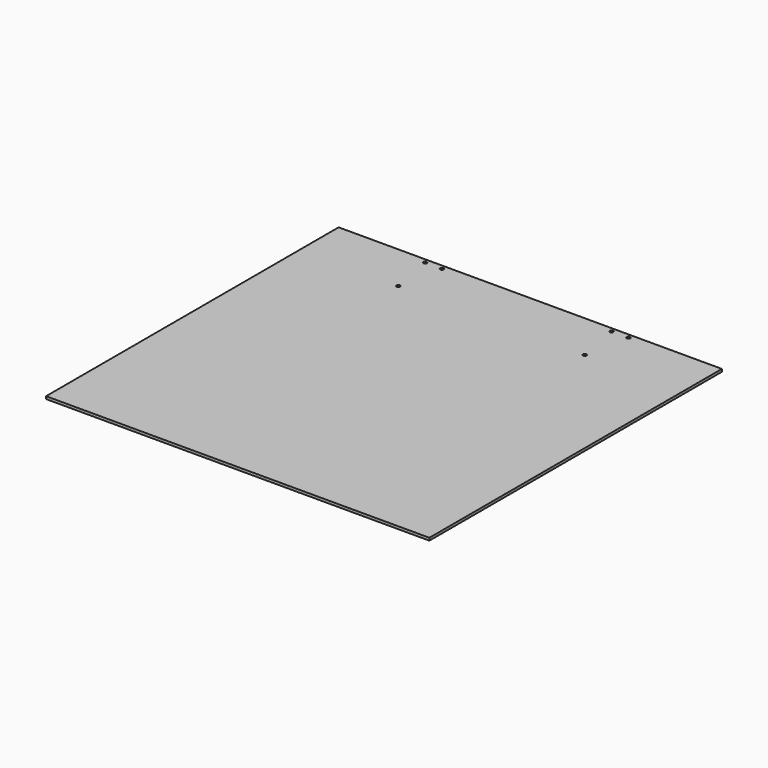
from build123d import *

# Parameters (mm, degrees)
F0_W     = 469.9
F0_H     = 469.9
F1_DEPTH = 3.175
F3_D     = 4.318
F4_DEPTH = 15.24
F5_DEPTH = 6.35


with BuildPart() as f1:
    # F0 (on Top) → F1 (new body)
    with BuildSketch(Plane.XY):
        Rectangle(F0_W, F0_H)
    extrude(amount=F1_DEPTH)

    # F3 (through all)
    with Locations(Plane(origin=(0, 0, 0), x_dir=(1, 0, 0), z_dir=(0, 0, -1))):
        with Locations((124.6378, -214.3252), (103.9622, -214.3252), (114.3, -160.3502), (-114.3, -160.3502), (-103.9622, -214.3252), (-124.6378, -214.3252)):
            Hole(F3_D / 2)

    # F4 (cut): a face of the model
    f4_faces = [f1.faces().sort_by_distance(p)[0] for p in [
        (0, 234.95, 1.5875),
    ]]
    extrude(f4_faces, amount=-F4_DEPTH, mode=Mode.SUBTRACT)

    # F5 (cut): a face of the model
    f5_faces = [f1.faces().sort_by_distance(p)[0] for p in [
        (0, -234.95, 1.5875),
    ]]
    extrude(f5_faces, amount=-F5_DEPTH, mode=Mode.SUBTRACT)


solid = f1.part
